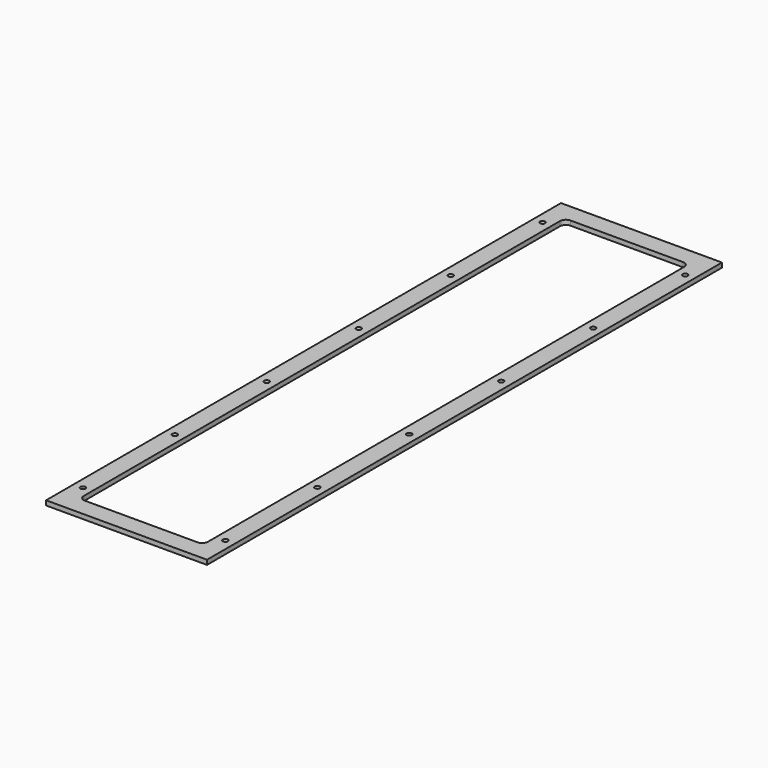
from build123d import *

# Parameters (mm, degrees)
SKETCH002_W            = 140
SKETCH002_H            = 560
PAD001_DEPTH           = 4
SKETCH003_R            = 2.2
POCKET001_DEPTH        = 4.001
LINEARPATTERN001_COUNT = 6
LINEARPATTERN001_PITCH = 100


with BuildPart() as part:
    # Sketch002 → Pad001 (new body)
    with BuildSketch(Plane.XY):
        with Locations((0, 280)):
            Rectangle(SKETCH002_W, SKETCH002_H)
        with BuildLine():
            Line((-49, 544), (49, 544))
            ThreePointArc((54, 539), (52.535534, 542.535534), (49, 544))
            Line((54, 539), (54, 21))
            ThreePointArc((49, 16), (52.535534, 17.464466), (54, 21))
            Line((49, 16), (-49, 16))
            ThreePointArc((-54, 21), (-52.535534, 17.464466), (-49, 16))
            Line((-54, 21), (-54, 539))
            ThreePointArc((-49, 544), (-52.535534, 542.535534), (-54, 539))
        make_face(mode=Mode.SUBTRACT)
    extrude(amount=PAD001_DEPTH)

    # Sketch003 (on Face14 of Pad001) → Pocket001 (cut, through all)
    with BuildSketch(Plane.XY.offset(4)):
        with Locations((62, 30)):
            Circle(SKETCH003_R)
        with Locations((-62, 30)):
            Circle(SKETCH003_R)
    pocket001 = extrude(amount=-POCKET001_DEPTH, mode=Mode.SUBTRACT)

    # LinearPattern001: Pocket001 ×6
    with Locations(*[(0, i * LINEARPATTERN001_PITCH, 0) for i in range(1, LINEARPATTERN001_COUNT)]):
        add(pocket001, mode=Mode.SUBTRACT)


with BuildPart() as part_1:
    # Body001 placement: moved
    add(part.part.moved(Location((0, 0, 40))))


solid = part_1.part
